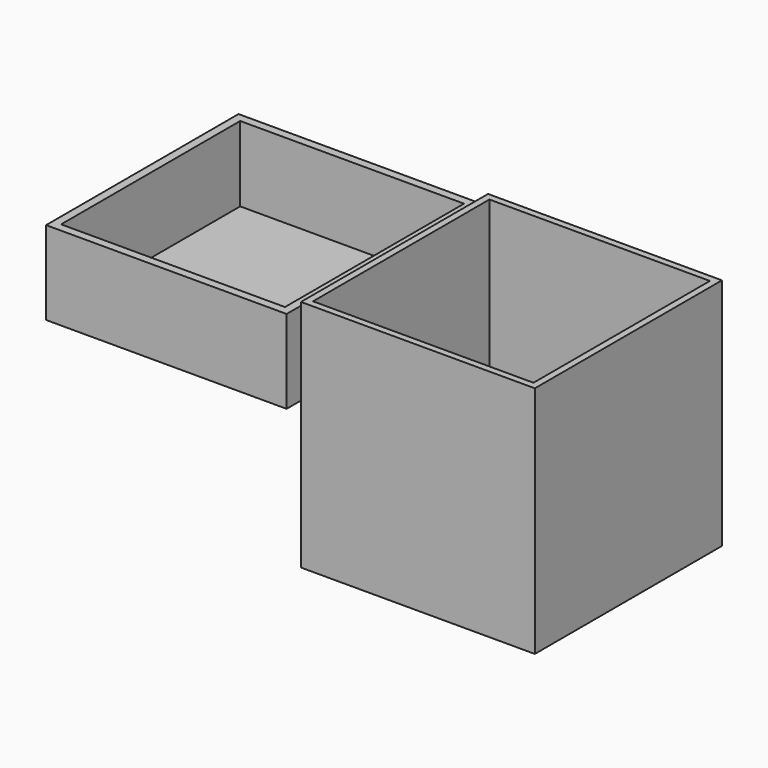
from build123d import *

# Parameters (mm, degrees)
F0_W     = 70
F0_H     = 70
F1_DEPTH = 70
F2_T     = -2
F3_W     = 72
F3_H     = 72
F4_DEPTH = 25
F5_T     = -2.5


with BuildPart() as f1:
    # F0 (on Right) → F1 (new body)
    with BuildSketch(Plane.YZ):
        with Locations((2.717556, -8.163129)):
            Rectangle(F0_W, F0_H)
    extrude(amount=F1_DEPTH)

    # F2
    f2_openings = [f1.faces().sort_by_distance(p)[0] for p in [
        (35, 2.717556, 26.836871),
    ]]
    offset(amount=F2_T, openings=f2_openings)


with BuildPart() as f4:
    # F3 (on Top) → F4 (new body)
    with BuildSketch(Plane.XY):
        with Locations((-37.011256, -0.387281)):
            Rectangle(F3_W, F3_H)
    extrude(amount=F4_DEPTH)

    # F5
    f5_openings = [f4.faces().sort_by_distance(p)[0] for p in [
        (-37.011256, -0.387281, 25),
    ]]
    offset(amount=F5_T, openings=f5_openings)


solid = Compound([f1.part, f4.part])
